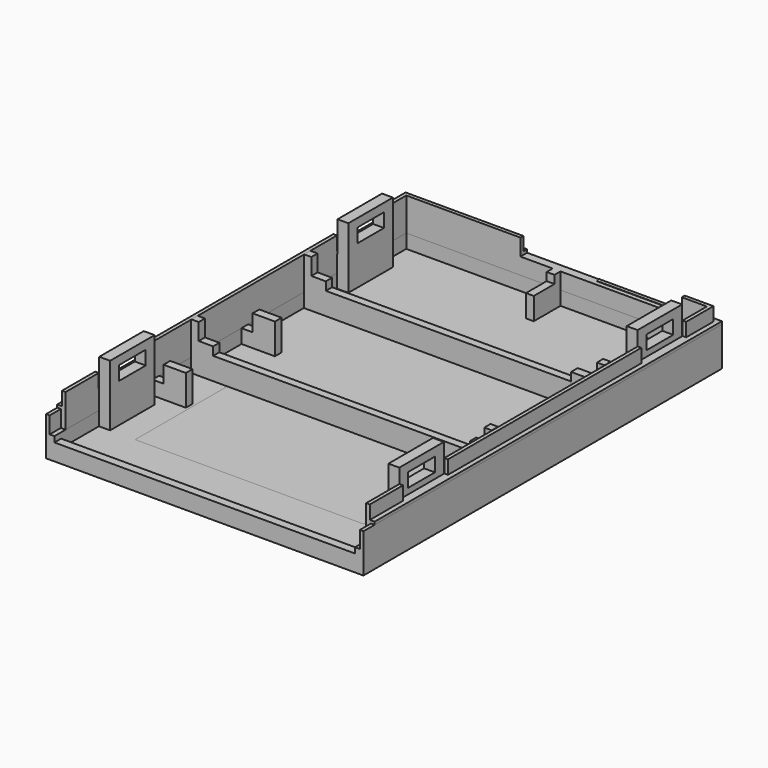
from build123d import *

# Parameters (mm, degrees)
SKETCH_W        = 57
SKETCH_H        = 80.5
PAD_DEPTH       = 1.5
PAD001_DEPTH    = 6
PAD002_DEPTH    = 2.45
SKETCH003_W     = 54
SKETCH003_H     = 1.4
SKETCH003_W_2   = 1.4
SKETCH003_H_2   = 6
PAD003_DEPTH    = 8.5
SKETCH004_W     = 51.3
SKETCH004_H     = 77.65
POCKET_DEPTH    = 3
SKETCH005_W     = 46.1
SKETCH005_H     = 77.65
POCKET001_DEPTH = 1.5
SKETCH027_W     = 10.1
SKETCH027_H     = 2.45
POCKET003_DEPTH = 56.151
SKETCH028_W     = 4
SKETCH028_H     = 2
PAD024_DEPTH    = 1
SKETCH029_W     = 4
SKETCH029_H     = 2
PAD025_DEPTH    = 1
CHAMFER_SIZE    = 0.95
SKETCH030_W     = 3.5
SKETCH030_H     = 9.95
POCKET004_DEPTH = 2.5
SKETCH034_W     = 29
SKETCH034_H     = 3.5
POCKET008_DEPTH = 3
SKETCH006_W     = 57
SKETCH006_H     = 80.5
PAD004_DEPTH    = 1.5
PAD005_DEPTH    = 2.5
PAD006_DEPTH    = 3
SKETCH009_W     = 54
SKETCH009_H     = 1.5
PAD007_DEPTH    = 1.5
SKETCH010_W     = 6
SKETCH010_H     = 1.5
PAD008_DEPTH    = 2.5
SKETCH011_W     = 6
SKETCH011_H     = 1.5
PAD009_DEPTH    = 2.5
SKETCH012_W     = 6
SKETCH012_H     = 1.5
PAD010_DEPTH    = 2.5
SKETCH013_W     = 4
SKETCH013_H     = 1.5
PAD011_DEPTH    = 3
SKETCH014_W     = 4
SKETCH014_H     = 1.5
PAD012_DEPTH    = 3
SKETCH015_W     = 4
SKETCH015_H     = 1.5
PAD013_DEPTH    = 3
SKETCH016_W     = 4
SKETCH016_H     = 1.5
PAD014_DEPTH    = 3
SKETCH017_W     = 2
SKETCH017_H     = 10
PAD015_DEPTH    = 2.5
SKETCH018_W     = 2.85
SKETCH018_H     = 10
PAD016_DEPTH    = 3
SKETCH019_W     = 2.85
SKETCH019_H     = 10
PAD017_DEPTH    = 3
SKETCH020_W     = 2.85
SKETCH020_H     = 10
PAD018_DEPTH    = 3
SKETCH021_W     = 2.85
SKETCH021_H     = 10
PAD019_DEPTH    = 3
SKETCH022_W     = 1.95
SKETCH022_H     = 10
PAD020_DEPTH    = 5.5
SKETCH023_W     = 1.95
SKETCH023_H     = 10
PAD021_DEPTH    = 5.5
SKETCH024_W     = 1.95
SKETCH024_H     = 10
PAD022_DEPTH    = 5.5
SKETCH025_W     = 1.95
SKETCH025_H     = 10
PAD023_DEPTH    = 5.5
SKETCH026_W     = 6
SKETCH026_H     = 2.5
POCKET002_DEPTH = 55.451
SKETCH031_W     = 6
SKETCH031_H     = 1.5
POCKET005_DEPTH = 5
SKETCH032_W     = 41
SKETCH032_H     = 22
POCKET006_DEPTH = 1.5
SKETCH033_W     = 29
SKETCH033_H     = 3
POCKET007_DEPTH = 0.65


with BuildPart() as bottom:
    # Sketch → Pad (new body)
    with BuildSketch(Plane.XY):
        with Locations((28.5, 40.25)):
            Rectangle(SKETCH_W, SKETCH_H)
    extrude(amount=PAD_DEPTH)

    # Sketch001 (on Face6 of Pad) → Pad001 (join)
    with BuildSketch(Plane.XY.offset(1.5)):
        Polygon((0, 0), (0, 80.5), (57, 80.5), (57, 0), (55.5, 0), (55.5, 79), (1.5, 79), (1.5, 0), align=None)
    extrude(amount=PAD001_DEPTH)

    # Sketch002 (on Face12 of Pad001) → Pad002 (join)
    with BuildSketch(Plane.XY.offset(7.5)):
        Polygon((1.5, 0), (0.85, 0), (0.85, 79.65), (56.15, 79.65), (56.15, 0), (55.5, 0), (55.5, 79), (1.5, 79), align=None)
    extrude(amount=PAD002_DEPTH)

    # Sketch003 (on Face6 of Pad002) → Pad003 (join)
    with BuildSketch(Plane.XY.offset(1.5)):
        with Locations((28.5, 31.4)):
            Rectangle(SKETCH003_W, SKETCH003_H)
        with Locations((28.5, 56.7)):
            Rectangle(SKETCH003_W, SKETCH003_H)
        with Locations((28.5, 76)):
            Rectangle(SKETCH003_W_2, SKETCH003_H_2)
    extrude(amount=PAD003_DEPTH)

    # Sketch004 (on Face26 of Pad003) → Pocket (cut)
    with BuildSketch(Plane.XY.offset(10)):
        with Locations((28.5, 38.825)):
            Rectangle(SKETCH004_W, SKETCH004_H)
    extrude(amount=-POCKET_DEPTH, mode=Mode.SUBTRACT)

    # Sketch005 (on Face26 of Pocket) → Pocket001 (cut)
    with BuildSketch(Plane.XY.offset(7)):
        with Locations((28.5, 38.825)):
            Rectangle(SKETCH005_W, SKETCH005_H)
    extrude(amount=-POCKET001_DEPTH, mode=Mode.SUBTRACT)

    # Sketch027 (on Face19 of Pocket001) → Pocket003 (cut, through all)
    with BuildSketch(Plane.YZ.offset(56.15)):
        with Locations((15, 8.725)):
            Rectangle(SKETCH027_W, SKETCH027_H)
        with Locations((68.5, 8.725)):
            Rectangle(SKETCH027_W, SKETCH027_H)
    extrude(amount=-POCKET003_DEPTH, mode=Mode.SUBTRACT)

    # Sketch028 (on Face11 of Pocket003) → Pad024 (join)
    with BuildSketch(Plane.YZ.offset(1.5)):
        with Locations((15, 4.5)):
            Rectangle(SKETCH028_W, SKETCH028_H)
        with Locations((68.5, 4.5)):
            Rectangle(SKETCH028_W, SKETCH028_H)
    extrude(amount=PAD024_DEPTH)

    # Sketch029 (on Face15 of Pad024) → Pad025 (join)
    with BuildSketch(Plane(origin=(55.5, 0, 0), x_dir=(0, -1, 0), z_dir=(-1, 0, 0))):
        with Locations((-15, 4.5)):
            Rectangle(SKETCH029_W, SKETCH029_H)
        with Locations((-68.5, 4.5)):
            Rectangle(SKETCH029_W, SKETCH029_H)
    extrude(amount=PAD025_DEPTH)

    # Chamfer
    chamfer_edges = [bottom.edges().sort_by_distance(p)[0] for p in [
        (2.5, 15, 3.5),
        (2.5, 15, 5.5),
        (2.5, 68.5, 5.5),
        (2.5, 68.5, 3.5),
        (54.5, 68.5, 3.5),
        (54.5, 68.5, 5.5),
        (54.5, 15, 5.5),
        (54.5, 15, 3.5),
    ]]
    chamfer(chamfer_edges, length=CHAMFER_SIZE)

    # Sketch030 (on Face16 of Chamfer) → Pocket004 (cut)
    with BuildSketch(Plane.XZ):
        with Locations((1.75, 4.975)):
            Rectangle(SKETCH030_W, SKETCH030_H)
        with Locations((55.25, 4.975)):
            Rectangle(SKETCH030_W, SKETCH030_H)
    extrude(amount=-POCKET004_DEPTH, mode=Mode.SUBTRACT)

    # Sketch034 (on Face54 of Pocket004) → Pocket008 (cut)
    with BuildSketch(Plane(origin=(0, 80.5, 0), x_dir=(-1, 0, 0), z_dir=(0, 1, 0))):
        with Locations((-36.5, 8.7)):
            Rectangle(SKETCH034_W, SKETCH034_H)
    extrude(amount=-POCKET008_DEPTH, mode=Mode.SUBTRACT)


with BuildPart() as top:
    # Sketch006 → Pad004 (new body)
    with BuildSketch(Plane.XY):
        with Locations((28.5, 40.25)):
            Rectangle(SKETCH006_W, SKETCH006_H)
    extrude(amount=PAD004_DEPTH)

    # Sketch007 (on Face6 of Pad004) → Pad005 (join)
    with BuildSketch(Plane.XY.offset(1.5)):
        Polygon((0, 0), (0, 80.5), (57, 80.5), (57, 0), (55.5, 0), (55.5, 79), (1.5, 79), (1.5, 0), align=None)
    extrude(amount=PAD005_DEPTH)

    # Sketch008 (on Face12 of Pad005) → Pad006 (join)
    with BuildSketch(Plane.XY.offset(4)):
        Polygon((0, 0), (0, 80.5), (57, 80.5), (57, 0), (56.35, 0), (56.35, 79.85), (0.65, 79.85), (0.65, 0), align=None)
    extrude(amount=PAD006_DEPTH)

    # Sketch009 (on Face6 of Pad006) → Pad007 (join)
    with BuildSketch(Plane.XY.offset(1.5)):
        with Locations((28.5, 0.75)):
            Rectangle(SKETCH009_W, SKETCH009_H)
    extrude(amount=PAD007_DEPTH)

    # Sketch010 (on Face20 of Pad007) → Pad008 (join)
    with BuildSketch(Plane.XY.offset(1.5)):
        with Locations((52.5, 22.75)):
            Rectangle(SKETCH010_W, SKETCH010_H)
        with Locations((4.5, 22.75)):
            Rectangle(SKETCH010_W, SKETCH010_H)
    extrude(amount=PAD008_DEPTH)

    # Sketch011 (on Face20 of Pad008) → Pad009 (join)
    with BuildSketch(Plane.XY.offset(1.5)):
        with Locations((52.5, 56.75)):
            Rectangle(SKETCH011_W, SKETCH011_H)
    extrude(amount=PAD009_DEPTH)

    # Sketch012 (on Face20 of Pad009) → Pad010 (join)
    with BuildSketch(Plane.XY.offset(1.5)):
        with Locations((4.5, 42.75)):
            Rectangle(SKETCH012_W, SKETCH012_H)
    extrude(amount=PAD010_DEPTH)

    # Sketch013 (on Face35 of Pad010) → Pad011 (join)
    with BuildSketch(Plane.XY.offset(4)):
        with Locations((5.5, 22.75)):
            Rectangle(SKETCH013_W, SKETCH013_H)
    extrude(amount=PAD011_DEPTH)

    # Sketch014 (on Face27 of Pad011) → Pad012 (join)
    with BuildSketch(Plane.XY.offset(4)):
        with Locations((51.5, 22.75)):
            Rectangle(SKETCH014_W, SKETCH014_H)
    extrude(amount=PAD012_DEPTH)

    # Sketch015 (on Face29 of Pad012) → Pad013 (join)
    with BuildSketch(Plane.XY.offset(4)):
        with Locations((51.5, 56.75)):
            Rectangle(SKETCH015_W, SKETCH015_H)
    extrude(amount=PAD013_DEPTH)

    # Sketch016 (on Face33 of Pad013) → Pad014 (join)
    with BuildSketch(Plane.XY.offset(4)):
        with Locations((5.5, 42.75)):
            Rectangle(SKETCH016_W, SKETCH016_H)
    extrude(amount=PAD014_DEPTH)

    # Sketch017 (on Face20 of Pad014) → Pad015 (join)
    with BuildSketch(Plane.XY.offset(1.5)):
        with Locations((2.5, 15)):
            Rectangle(SKETCH017_W, SKETCH017_H)
        with Locations((54.5, 15)):
            Rectangle(SKETCH017_W, SKETCH017_H)
        with Locations((2.5, 68.5)):
            Rectangle(SKETCH017_W, SKETCH017_H)
        with Locations((54.5, 68.5)):
            Rectangle(SKETCH017_W, SKETCH017_H)
    extrude(amount=PAD015_DEPTH)

    # Sketch018 (on Face43 of Pad015) → Pad016 (join)
    with BuildSketch(Plane.XY.offset(4)):
        with Locations((2.075, 15)):
            Rectangle(SKETCH018_W, SKETCH018_H)
    extrude(amount=PAD016_DEPTH)

    # Sketch019 (on Face30 of Pad016) → Pad017 (join)
    with BuildSketch(Plane.XY.offset(4)):
        with Locations((54.925, 15)):
            Rectangle(SKETCH019_W, SKETCH019_H)
    extrude(amount=PAD017_DEPTH)

    # Sketch020 (on Face82 of Pad017) → Pad018 (join)
    with BuildSketch(Plane.XY.offset(4)):
        with Locations((2.075, 68.5)):
            Rectangle(SKETCH020_W, SKETCH020_H)
    extrude(amount=PAD018_DEPTH)

    # Sketch021 (on Face88 of Pad018) → Pad019 (join)
    with BuildSketch(Plane.XY.offset(4)):
        with Locations((54.925, 68.5)):
            Rectangle(SKETCH021_W, SKETCH021_H)
    extrude(amount=PAD019_DEPTH)

    # Sketch022 (on Face70 of Pad019) → Pad020 (join)
    with BuildSketch(Plane.XY.offset(7)):
        with Locations((2.525, 15)):
            Rectangle(SKETCH022_W, SKETCH022_H)
    extrude(amount=PAD020_DEPTH)

    # Sketch023 (on Face62 of Pad020) → Pad021 (join)
    with BuildSketch(Plane.XY.offset(7)):
        with Locations((54.475, 15)):
            Rectangle(SKETCH023_W, SKETCH023_H)
    extrude(amount=PAD021_DEPTH)

    # Sketch024 (on Face68 of Pad021) → Pad022 (join)
    with BuildSketch(Plane.XY.offset(7)):
        with Locations((2.525, 68.5)):
            Rectangle(SKETCH024_W, SKETCH024_H)
    extrude(amount=PAD022_DEPTH)

    # Sketch025 (on Face64 of Pad022) → Pad023 (join)
    with BuildSketch(Plane.XY.offset(7)):
        with Locations((54.475, 68.5)):
            Rectangle(SKETCH025_W, SKETCH025_H)
    extrude(amount=PAD023_DEPTH)

    # Sketch026 (on Face102 of Pad023) → Pocket002 (cut, through all)
    with BuildSketch(Plane.YZ.offset(55.45)):
        with Locations((15, 9.75)):
            Rectangle(SKETCH026_W, SKETCH026_H)
        with Locations((68.5, 9.75)):
            Rectangle(SKETCH026_W, SKETCH026_H)
    extrude(amount=-POCKET002_DEPTH, mode=Mode.SUBTRACT)

    # Sketch031 (on Face115 of Pocket002) → Pocket005 (cut)
    with BuildSketch(Plane.XY.offset(7)):
        with Locations((52.5, 22.75)):
            Rectangle(SKETCH031_W, SKETCH031_H)
    extrude(amount=-POCKET005_DEPTH, mode=Mode.SUBTRACT)

    # Sketch032 (on Face21 of Pocket005) → Pocket006 (cut)
    with BuildSketch(Plane.XY.offset(1.5)):
        with Locations((28.5, 21)):
            Rectangle(SKETCH032_W, SKETCH032_H)
    extrude(amount=-POCKET006_DEPTH, mode=Mode.SUBTRACT)

    # Sketch033 (on Face22 of Pocket006) → Pocket007 (cut)
    with BuildSketch(Plane(origin=(0, 80.5, 0), x_dir=(-1, 0, 0), z_dir=(0, 1, 0))):
        with Locations((-20.5, 5.5)):
            Rectangle(SKETCH033_W, SKETCH033_H)
    extrude(amount=-POCKET007_DEPTH, mode=Mode.SUBTRACT)


solid = Compound([bottom.part, top.part])
